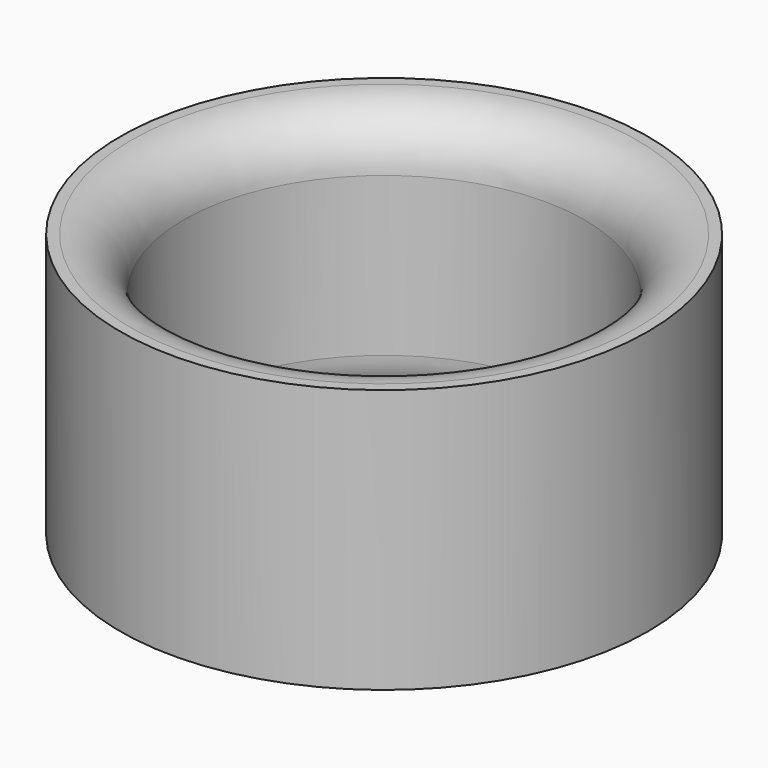
from build123d import *

# Parameters (mm, degrees)
SKETCH_R     = 2.5
PAD_DEPTH    = 2.5
SKETCH001_R  = 1.9
POCKET_DEPTH = 5
FILLET_R     = 0.5
FILLET001_R  = 0.5


with BuildPart() as part:
    # Sketch → Pad (new body)
    with BuildSketch(Plane.XY):
        Circle(SKETCH_R)
    extrude(amount=PAD_DEPTH)

    # Sketch001 (on Face3 of Pad) → Pocket (cut)
    with BuildSketch(Plane.XY.offset(2.5)):
        Circle(SKETCH001_R)
    extrude(amount=-POCKET_DEPTH, mode=Mode.SUBTRACT)

    # Fillet
    fillet_edges = [part.edges().sort_by_distance(p)[0] for p in [
        (-1.9, 0, 2.5),
    ]]
    fillet(fillet_edges, radius=FILLET_R)

    # Fillet001
    fillet001_edges = [part.edges().sort_by_distance(p)[0] for p in [
        (-1.9, 0, 0),
    ]]
    fillet(fillet001_edges, radius=FILLET001_R)


solid = part.part
